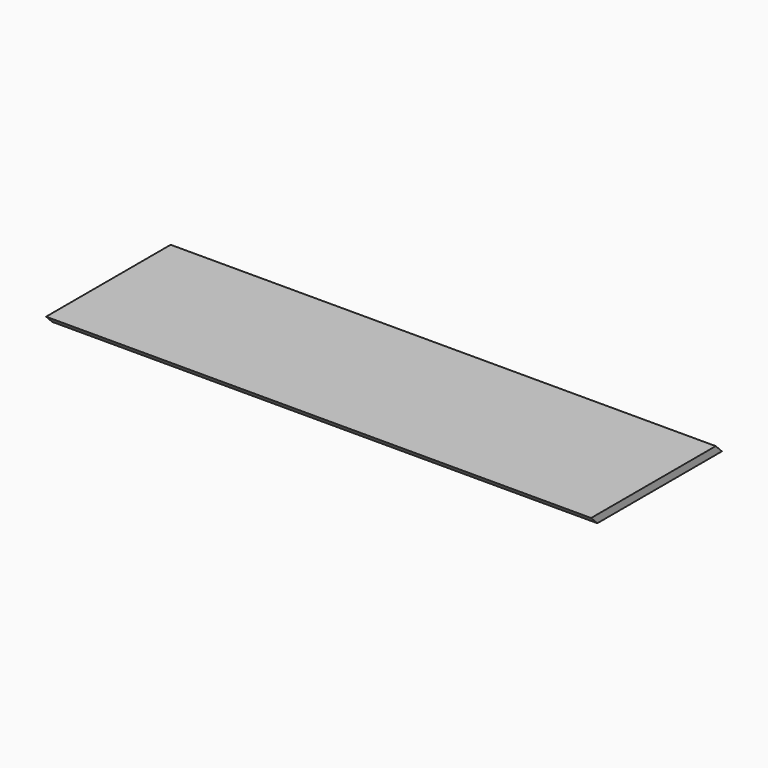
from build123d import *

# Parameters (mm, degrees)
F0_W     = 1400
F0_H     = 420
F1_DEPTH = 20
F3_DEPTH = 1400


with BuildPart() as f1:
    # F0 (on Top) → F1 (new body)
    with BuildSketch(Plane.XY):
        Rectangle(F0_W, F0_H)
    extrude(amount=F1_DEPTH)

    # F2 (on face) → F3 (cut)
    with BuildSketch(Plane.YZ.offset(700)):
        Polygon((-190, 0), (-210, 20), (-210, 0), align=None)
        Polygon((190, 20), (210, 0), (210, 20), align=None)
    extrude(amount=-F3_DEPTH, mode=Mode.SUBTRACT)


solid = f1.part
